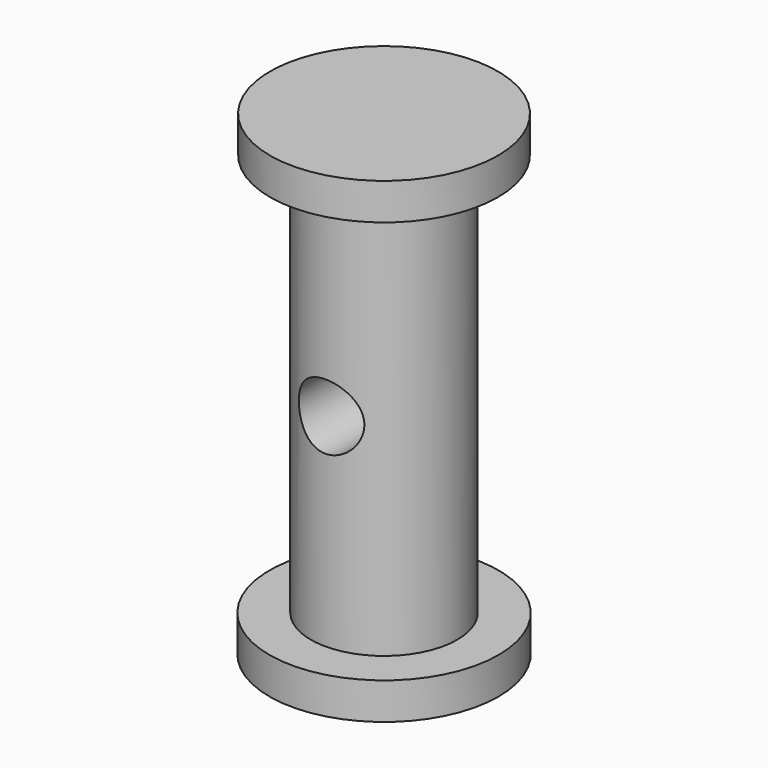
from build123d import *

# Parameters (mm, degrees)
F0_R      = 12.7
F1_DEPTH  = 76.2
F2_R      = 19.868023
F3_DEPTH  = 6.35
F4_R      = 19.76611
F5_DEPTH  = 6.35
F6_R      = 5.68078
F7_DEPTH  = 508
F7_FACE_R = 5.68078
F8_DEPTH  = 1270


with BuildPart() as f1:
    # F0 (on Top) → F1 (new body)
    with BuildSketch(Plane.XY):
        Circle(F0_R)
    extrude(amount=F1_DEPTH)

    # F2 (on Top) → F3 (join)
    with BuildSketch(Plane.XY):
        Circle(F2_R)
    extrude(amount=F3_DEPTH)

    # F4 (on face) → F5 (join)
    with BuildSketch(Plane.XY.offset(76.2)):
        Circle(F4_R)
    extrude(amount=F5_DEPTH)

    # F6 (on Front) → F7 (cut)
    with BuildSketch(Plane.XZ):
        with Locations((0, 41.454975)):
            Circle(F6_R)
    extrude(amount=-F7_DEPTH, mode=Mode.SUBTRACT)

    # F7_face (on face) → F8 (cut)
    with BuildSketch(Plane(origin=(0, 0, 41.454975), x_dir=(1, 0, 0), z_dir=(0, 1, 0))):
        Circle(F7_FACE_R)
    extrude(amount=-F8_DEPTH, mode=Mode.SUBTRACT)


solid = f1.part
